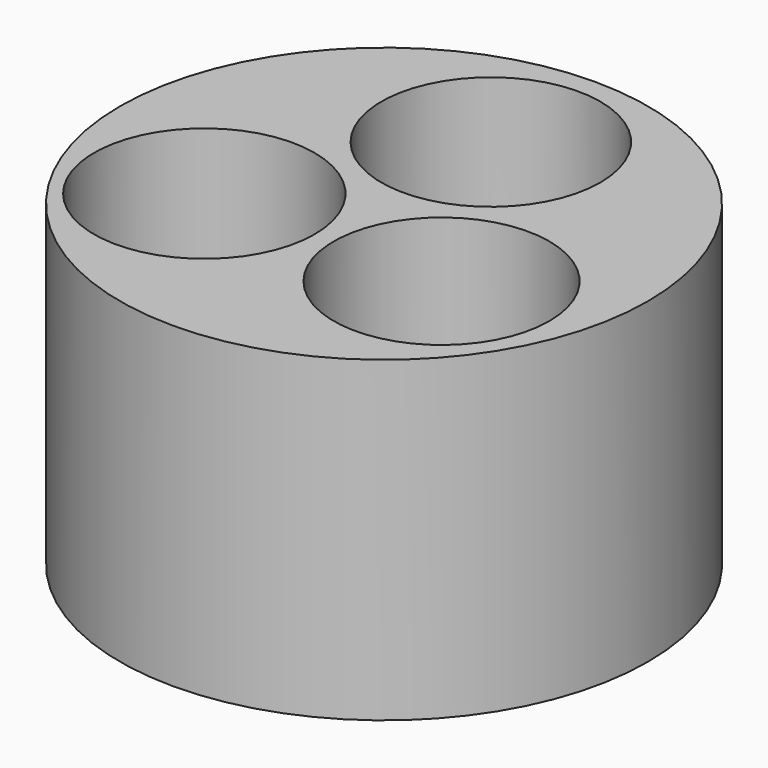
from build123d import *

# Parameters (mm, degrees)
F0_R     = 39.914838
F0_R_2   = 16.678435
F0_R_3   = 16.308539
F0_R_4   = 16.567174
F1_DEPTH = 48


with BuildPart() as f1:
    # F0 (on Top) → F1 (new body)
    with BuildSketch(Plane.XY):
        Circle(F0_R)
        with Locations((-18.188256, -11.230424)):
            Circle(F0_R_2, mode=Mode.SUBTRACT)
        with Locations((17.686194, -11.230424)):
            Circle(F0_R_3, mode=Mode.SUBTRACT)
        with Locations((0, 20.190421)):
            Circle(F0_R_4, mode=Mode.SUBTRACT)
    extrude(amount=F1_DEPTH)


solid = f1.part
